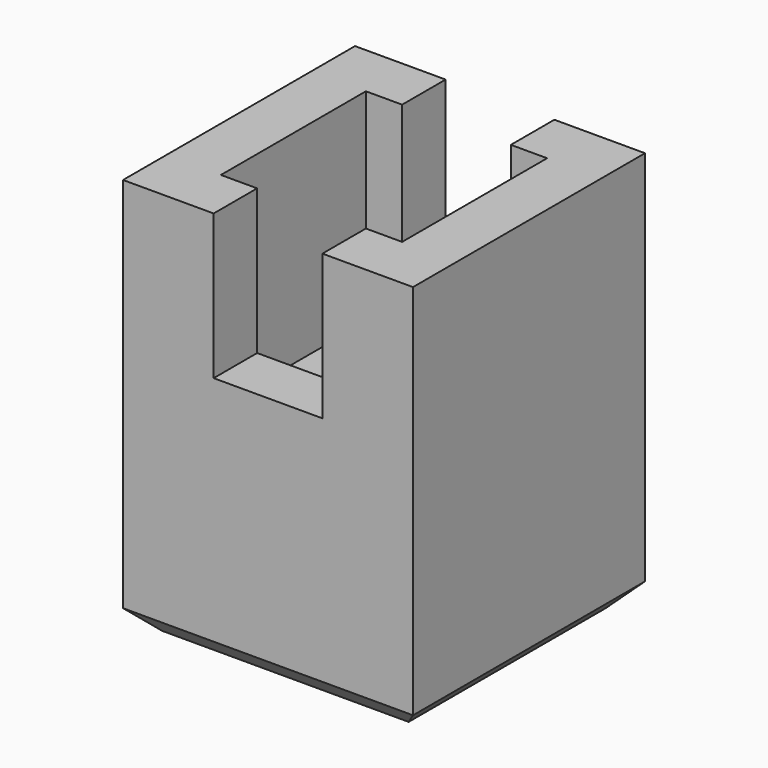
from build123d import *

# Parameters (mm, degrees)
SKETCH_W        = 4
SKETCH_H        = 4
PAD_DEPTH       = 5.5
SKETCH001_W     = 2.5
SKETCH001_H     = 2.5
POCKET_DEPTH    = 2.8
SKETCH002_W     = 1.5
SKETCH002_H     = 4
POCKET001_DEPTH = 2
CHAMFER_SIZE    = 0.3


with BuildPart() as part:
    # Sketch → Pad (new body)
    with BuildSketch(Plane.XY):
        Rectangle(SKETCH_W, SKETCH_H)
    extrude(amount=PAD_DEPTH)

    # Sketch001 (on DatumPlane) → Pocket (cut)
    with BuildSketch(Plane.XY.offset(5.5)):
        Rectangle(SKETCH001_W, SKETCH001_H)
    extrude(amount=-POCKET_DEPTH, mode=Mode.SUBTRACT)

    # Sketch002 (on DatumPlane) → Pocket001 (cut)
    with BuildSketch(Plane.XY.offset(5.5)):
        Rectangle(SKETCH002_W, SKETCH002_H)
    extrude(amount=-POCKET001_DEPTH, mode=Mode.SUBTRACT)

    # Chamfer
    chamfer_edges = [part.edges().sort_by_distance(p)[0] for p in [
        (0, 2, 0),
        (-2, 0, 0),
        (0, -2, 0),
        (2, 0, 0),
    ]]
    chamfer(chamfer_edges, length=CHAMFER_SIZE)


solid = part.part
